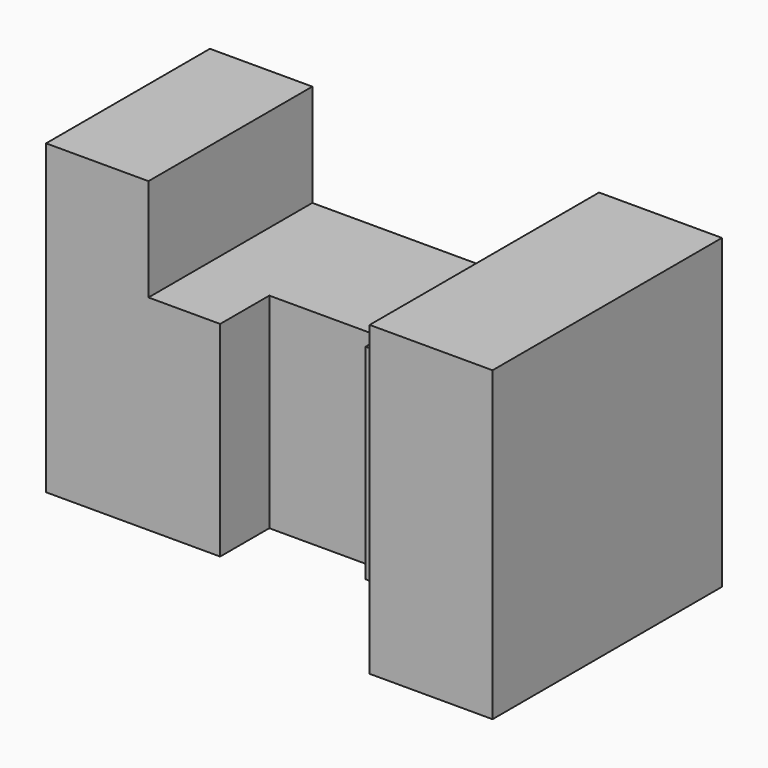
from build123d import *

# Parameters (mm, degrees)
F1_DEPTH = 70
F3_DEPTH = 75.001


with BuildPart() as f1:
    # F0 (on Front) → F1 (new body)
    with BuildSketch(Plane.XZ):
        Polygon((-35, 25), (-60, 25), (-60, -50), (65, -50), (65, 25), (35, 25), (35, 0), (-35, 0), align=None)
    extrude(amount=F1_DEPTH)

    # F2 (on face) → F3 (cut, through all)
    with BuildSketch(Plane.XY.offset(25)):
        Polygon((35, -70), (35, -40), (10, -40), (10, -35), (-17.5, -35), (-17.5, -50), (-60, -50), (-60, -70), align=None)
    extrude(amount=-F3_DEPTH, mode=Mode.SUBTRACT)


solid = f1.part
